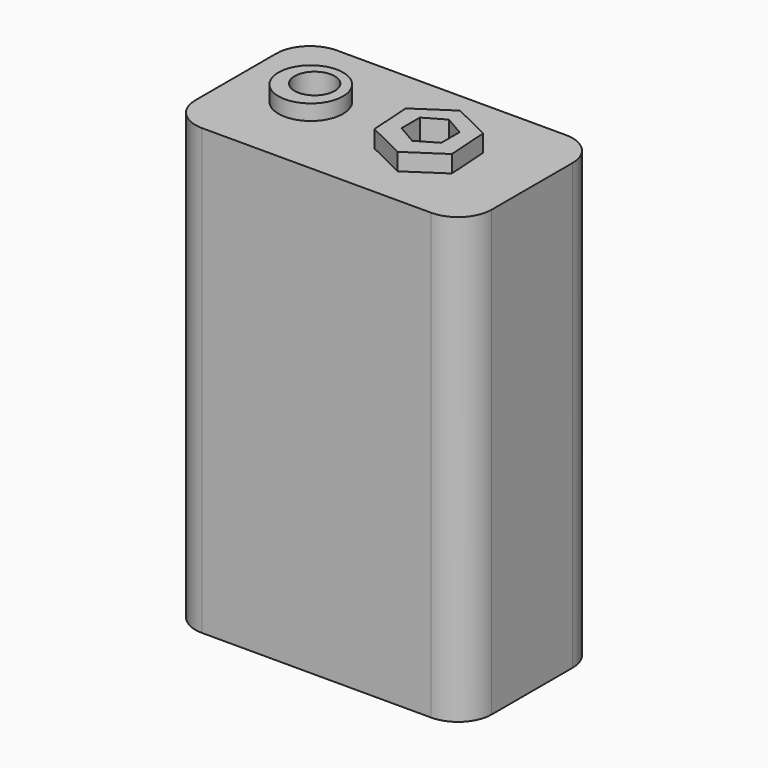
from build123d import *

# Parameters (mm, degrees)
F0_W      = 44.703841
F0_H      = 67.055764
F1_DEPTH  = 25.4
F2_R      = 5.08
F3_R      = 4.871573
F4_DEPTH  = 58.928
F6_DEPTH  = 59.182
F7_R      = 3.027464
F8_DEPTH  = 69.85
F10_DEPTH = 63.246
F11_W     = 32.655392
F11_H     = 15.437096
F12_DEPTH = 55.372
F13_W     = 32.494774
F13_H     = 18.05481
F14_DEPTH = 12.192
F15_W     = 36.602098
F15_H     = 18.466117
F16_DEPTH = 9.398


with BuildPart() as f1:
    # F0 (on Front) → F1 (new body)
    with BuildSketch(Plane.XZ):
        with Locations((-7.164082, 23.068326)):
            Rectangle(F0_W, F0_H)
    extrude(amount=F1_DEPTH)

    # F2
    f2_edges = [f1.edges().sort_by_distance(p)[0] for p in [
        (-29.516002, -25.4, 23.068326),
        (15.187839, -25.4, 23.068326),
        (15.187839, 0, 23.068326),
        (-29.516002, 0, 23.068326),
    ]]
    fillet(f2_edges, radius=F2_R)

    # F3 (on Top) → F4 (join)
    with BuildSketch(Plane.XY):
        with Locations((-18.626601, -12.178931)):
            Circle(F3_R)
    extrude(amount=F4_DEPTH)

    # F5 (on Top) → F6 (join)
    with BuildSketch(Plane.XY):
        Polygon((-5.756941, -10.364093), (-5.343609, -16.772998), (0.413332, -19.619495), (5.756941, -16.057087), (5.343609, -9.648181), (-0.413332, -6.801685), align=None)
    extrude(amount=F6_DEPTH)

    # F7 (on Top) → F8 (cut)
    with BuildSketch(Plane.XY):
        with Locations((-18.405765, -11.726255)):
            Circle(F7_R)
    extrude(amount=F8_DEPTH, mode=Mode.SUBTRACT)

    # F9 (on Top) → F10 (cut)
    with BuildSketch(Plane.XY):
        Polygon((2.995406, -11.145309), (0, -9.415911), (-2.995406, -11.145309), (-2.995406, -14.604106), (0, -16.333505), (2.995406, -14.604106), align=None)
    extrude(amount=F10_DEPTH, mode=Mode.SUBTRACT)

    # F11 (on Top) → F12 (join)
    with BuildSketch(Plane.XY):
        with Locations((-6.234212, -13.507458)):
            Rectangle(F11_W, F11_H)
    extrude(amount=F12_DEPTH)

    # F13 (on Top) → F14 (cut)
    with BuildSketch(Plane.XY):
        with Locations((-6.848318, -12.28925)):
            Rectangle(F13_W, F13_H)
    extrude(amount=-F14_DEPTH, mode=Mode.SUBTRACT)

    # F15 (on Top) → F16 (join)
    with BuildSketch(Plane.XY):
        with Locations((-6.621592, -12.536748)):
            Rectangle(F15_W, F15_H)
    extrude(amount=-F16_DEPTH)


solid = f1.part
